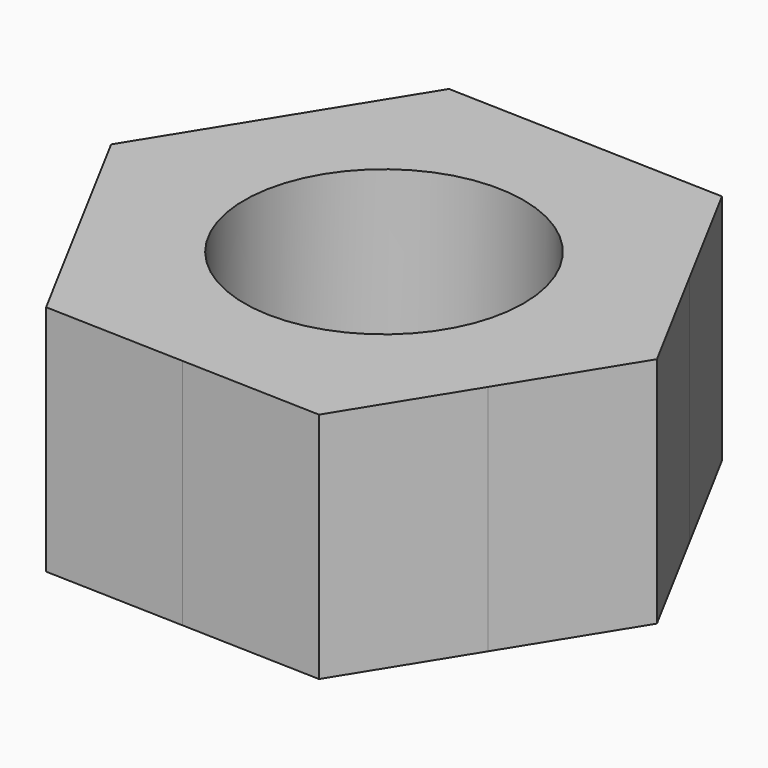
from build123d import *

# Parameters (mm, degrees)
F0_R     = 9.525
F1_DEPTH = 15.875


with BuildPart() as f1:
    # F0 (on Top) → F1 (new body)
    with BuildSketch(Plane.XY):
        with BuildLine():
            ThreePointArc((14.0569245039, -8.7113374776), (15.9051729794, -4.5287967112), (16.5373676006, 0))
            ThreePointArc((16.5373676006, 0), (16.0386820852, 4.0305339754), (14.5727013346, 7.8179858641))
            ThreePointArc((14.5727013346, 7.8179858641), (8.7113369684, 14.0569248195), (0.515777109, 16.5293224644))
            ThreePointArc((0.515777109, 16.5293224644), (-7.8179853534, 14.5727016085), (-14.0569248464, 8.7113369249))
            ThreePointArc((-14.0569248464, 8.7113369249), (-16.5293224721, 0.5157768615), (-14.5727016967, -7.817985189))
            ThreePointArc((-14.5727016967, -7.817985189), (-8.7113373682, -14.0569245717), (-0.5157772836, -16.5293224589))
            ThreePointArc((-0.5157772836, -16.5293224589), (7.8179849899, -14.5727018035), (14.0569245039, -8.7113374776))
        make_face()
        Circle(F0_R, mode=Mode.SUBTRACT)
        with BuildLine():
            ThreePointArc((14.5727013346, 7.8179858641), (16.0386820852, 4.0305339754), (16.5373676006, 0))
            ThreePointArc((16.5373676006, 0), (15.9051729794, -4.5287967112), (14.0569245039, -8.7113374776))
            Line((14.0569245039, -8.7113374776), (19.0864175571, -0.5955678347))
            Line((19.0864175571, -0.5955678347), (14.5727013346, 7.8179858641))
        make_face()
        with BuildLine():
            ThreePointArc((0.515777109, 16.5293224644), (8.7113369684, 14.0569248195), (14.5727013346, 7.8179858641))
            Line((14.5727013346, 7.8179858641), (10.0589856531, 16.2315385543))
            Line((10.0589856531, 16.2315385543), (0.515777109, 16.5293224644))
        make_face()
        with BuildLine():
            Line((9.027431904, -16.827106389), (14.0569245039, -8.7113374776))
            ThreePointArc((14.0569245039, -8.7113374776), (7.8179849899, -14.5727018035), (-0.5157772836, -16.5293224589))
            Line((-0.5157772836, -16.5293224589), (9.027431904, -16.827106389))
        make_face()
        with BuildLine():
            ThreePointArc((-14.0569248464, 8.7113369249), (-7.8179853534, 14.5727016085), (0.515777109, 16.5293224644))
            Line((0.515777109, 16.5293224644), (-9.027431904, 16.827106389))
            Line((-9.027431904, 16.827106389), (-14.0569248464, 8.7113369249))
        make_face()
        with BuildLine():
            Line((-10.0589856531, -16.2315385543), (-0.5157772836, -16.5293224589))
            ThreePointArc((-0.5157772836, -16.5293224589), (-8.7113373682, -14.0569245717), (-14.5727016967, -7.817985189))
            Line((-14.5727016967, -7.817985189), (-10.0589856531, -16.2315385543))
        make_face()
        with BuildLine():
            ThreePointArc((-14.5727016967, -7.817985189), (-16.5293224721, 0.5157768615), (-14.0569248464, 8.7113369249))
            Line((-14.0569248464, 8.7113369249), (-19.0864175571, 0.5955678347))
            Line((-19.0864175571, 0.5955678347), (-14.5727016967, -7.817985189))
        make_face()
    extrude(amount=F1_DEPTH)


solid = f1.part
